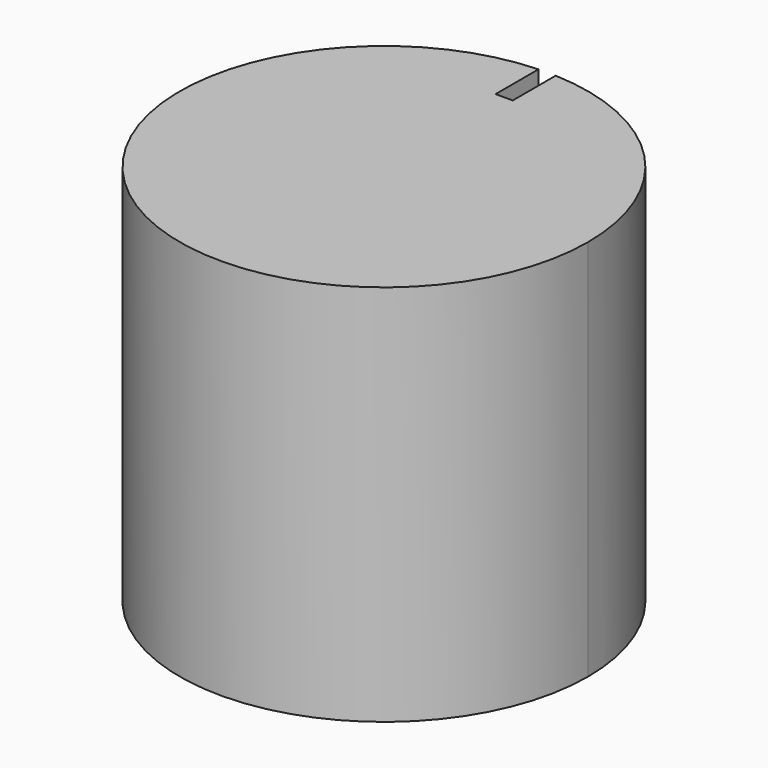
from build123d import *

# Parameters (mm, degrees)
F1_DEPTH = 89


with BuildPart() as f1:
    # F0 (on Top) → F1 (new body)
    with BuildSketch(Plane.XY):
        with BuildLine():
            ThreePointArc((-2, 47.4578760587), (-32.8728611472, -34.287388352), (47.5, 0))
            ThreePointArc((47.5, 0), (34.287388352, 32.8728611472), (2, 47.4578760587))
            Line((2, 47.4578760587), (2, 34.9655821919))
            Line((2, 34.9655821919), (0, 34.9655821919))
            Line((0, 34.9655821919), (-2, 34.9655821919))
            Line((-2, 34.9655821919), (-2, 47.4578760587))
        make_face()
    extrude(amount=F1_DEPTH)


solid = f1.part
